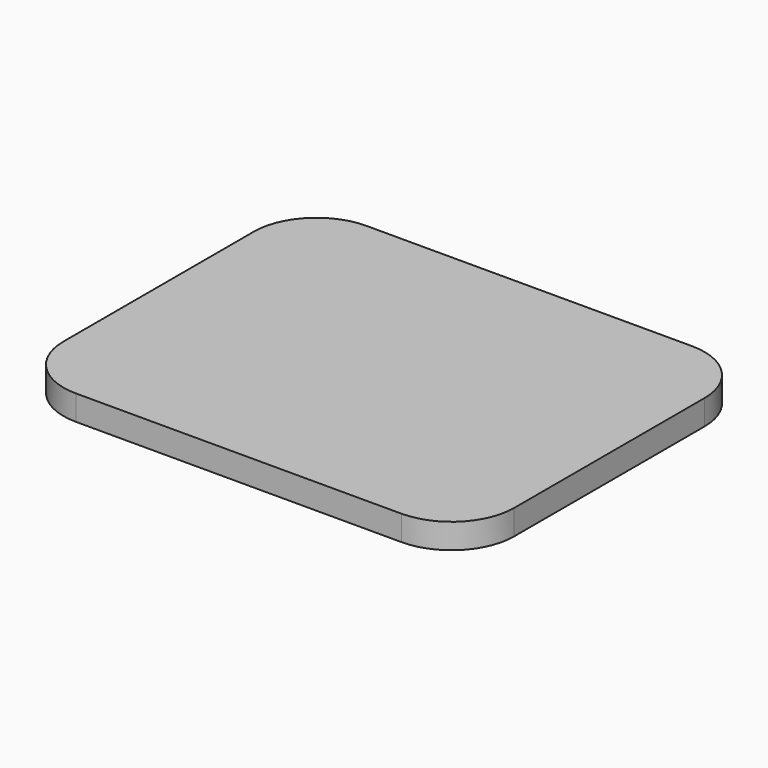
from build123d import *

# Parameters (mm, degrees)
BOX031_W     = 72
BOX031_H     = 58
BOX031_DEPTH = 4
FILLET025_R  = 10


with BuildPart() as fillet025:
    # Box031 → Box031 (new body)
    with BuildSketch(Plane(origin=(-15, -29, -2), x_dir=(1, 0, 0), z_dir=(0, 0, 1))):
        with Locations((36, 29)):
            Rectangle(BOX031_W, BOX031_H)
    extrude(amount=BOX031_DEPTH)

    # Fillet025
    fillet025_edges = [fillet025.edges().sort_by_distance(p)[0] for p in [
        (-15, -29, 0),
        (-15, 29, 0),
        (57, -29, 0),
        (57, 29, 0),
    ]]
    fillet(fillet025_edges, radius=FILLET025_R)


with BuildPart() as part_mirroring010:
    # Part__Mirroring010: instance of Fillet025
    add(fillet025.part.mirror(Plane(origin=(0, 0, 0), x_dir=(1, 0, 0), z_dir=(0, 1, 0))))


with BuildPart() as part_mirroring010_1:
    # Part__Mirroring010 placement: moved
    add(part_mirroring010.part.moved(Location((0, 72, 0))))


solid = part_mirroring010_1.part
